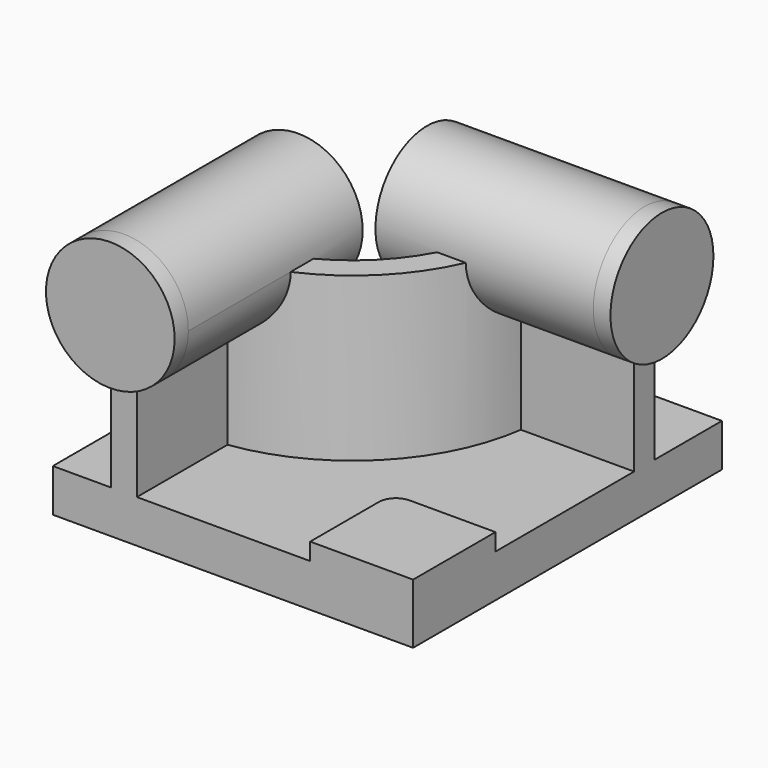
from build123d import *

# Parameters (mm, degrees)
F0_W          = 210
F0_H          = 225
F1_DEPTH      = 25
F3_DEPTH      = 95
F4_R          = 37.5
F5_DEPTH      = 10
F5_DEPTH_BACK = 127
F6_R          = 37.5
F7_DEPTH      = 10
F7_DEPTH_BACK = 127
F8_W          = 60
F8_H          = 60
F9_DEPTH      = 10
F10_R         = 10


with BuildPart() as f1:
    # F0 (on Top) → F1 (new body)
    with BuildSketch(Plane.XY):
        Rectangle(F0_W, F0_H)
    extrude(amount=F1_DEPTH)

    # F2 (on face) → F3 (join)
    with BuildSketch(Plane.XY.offset(25)):
        with BuildLine():
            Line((-71, -32.5), (-71, -112.5))
            Line((-71, -112.5), (-56, -112.5))
            Line((-56, -112.5), (-56, -46.481817))
            ThreePointArc((-56, -46.481817), (7.488853, -14.988853), (38.981817, 48.5))
            Line((38.981817, 48.5), (105, 48.5))
            Line((105, 48.5), (105, 63.5))
            Line((105, 63.5), (25, 63.5))
            ThreePointArc((25, 63.5), (-3.117749, -4.382251), (-71, -32.5))
        make_face()
    extrude(amount=F3_DEPTH)

    # F4 (on face) → F5 (join, two sides)
    with BuildSketch(Plane.XZ.offset(112.5)) as f5_sk:
        with Locations((-63.5, 120)):
            Circle(F4_R)
    extrude(amount=F5_DEPTH)
    extrude(f5_sk.sketch, amount=-F5_DEPTH_BACK)

    # F6 (on face) → F7 (join, two sides)
    with BuildSketch(Plane.YZ.offset(105)) as f7_sk:
        with Locations((56.305401, 120.402195)):
            Circle(F6_R)
    extrude(amount=F7_DEPTH)
    extrude(f7_sk.sketch, amount=-F7_DEPTH_BACK)

    # F8 (on face) → F9 (join)
    with BuildSketch(Plane.XY.offset(25)):
        with Locations((75, -82.5)):
            Rectangle(F8_W, F8_H)
    extrude(amount=F9_DEPTH)

    # F10
    f10_edges = [f1.edges().sort_by_distance(p)[0] for p in [
        (45, -52.5, 30),
    ]]
    fillet(f10_edges, radius=F10_R)


solid = f1.part
